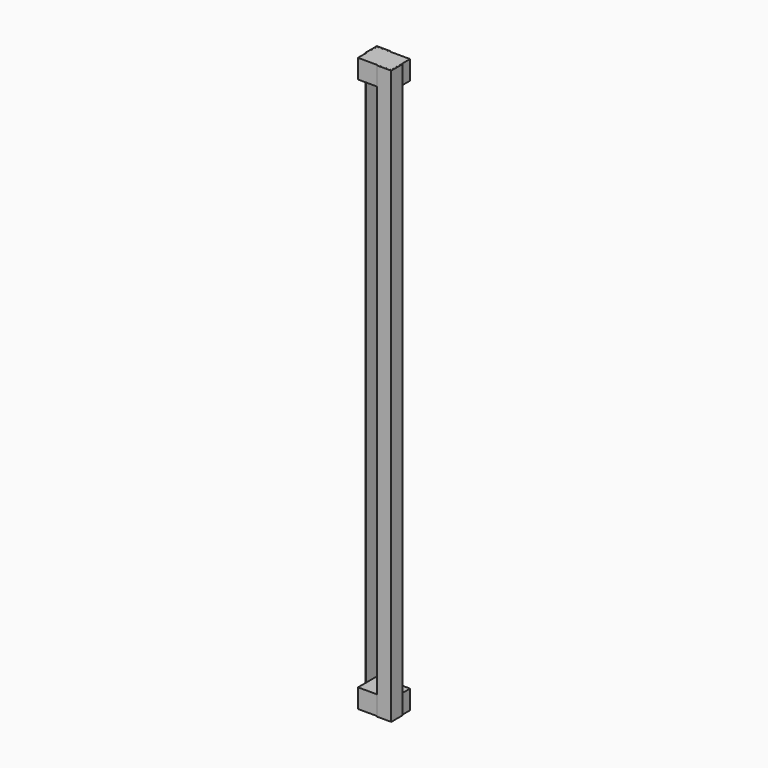
from build123d import *

# Parameters (mm, degrees)
F1_DEPTH = 1524
F0_W     = 87.970057
F0_H     = 63.123137
F2_DEPTH = 50.8
F3_W     = 88.035125
F3_H     = 63.188991
F4_DEPTH = 50.8


with BuildPart() as f1:
    # F0 (on Top) → F1 (new body)
    with BuildSketch(Plane.XY):
        Polygon((38.09872, 67.4624), (0, 67.774666), (0, 29.674666), (1.9812, 29.674666), (1.9812, 65.4812), (38.09872, 65.4812), align=None)
        Polygon((54.2544, 1.9812), (54.2544, 0), (92.3544, 0), (92.3544, 38.1), (90.3732, 38.1), (90.3732, 1.9812), align=None)
    extrude(amount=F1_DEPTH)


with BuildPart() as f2:
    # F0 (on Top) → F2 (new body)
    with BuildSketch(Plane.XY):
        with Locations((46.224545, 33.697634)):
            Rectangle(F0_W, F0_H)
    extrude(amount=F2_DEPTH)


with BuildPart() as f4:
    # F3 (on face) → F4 (new body)
    with BuildSketch(Plane.XY.offset(1524)):
        with Locations((46.151122, 33.739967)):
            Rectangle(F3_W, F3_H)
    extrude(amount=-F4_DEPTH)


solid = Compound([f1.part, f2.part, f4.part])
